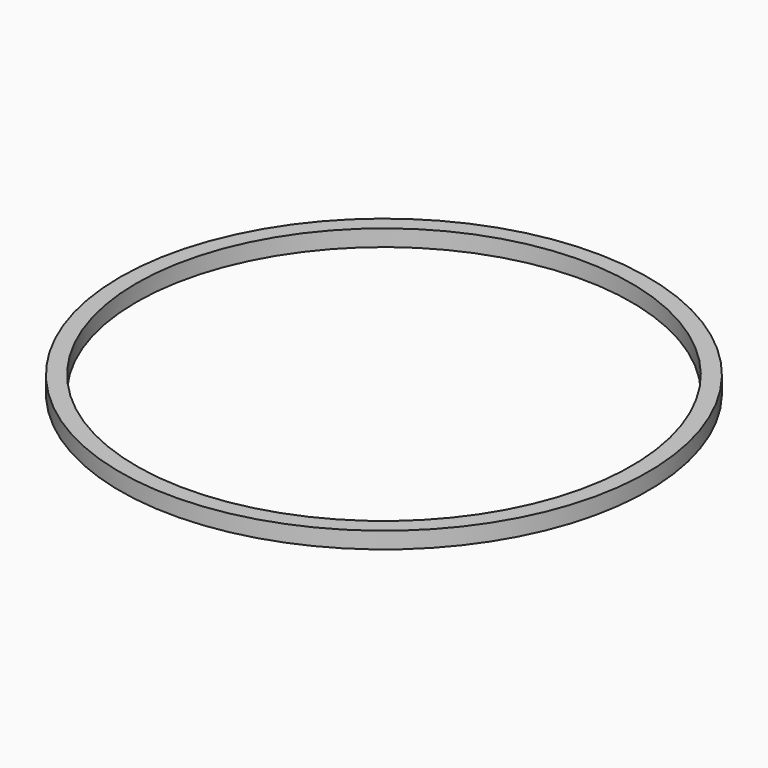
from build123d import *

# Parameters (mm, degrees)
F0_W   = 40
F0_H   = 40
F0_W_2 = 34
F0_H_2 = 34


with BuildPart() as f1:
    # F0 (on Front) → F1 (revolve)
    with BuildSketch(Plane.XZ):
        with Locations((-620, 0)):
            Rectangle(F0_W, F0_H)
        with Locations((-620, 0)):
            Rectangle(F0_W_2, F0_H_2, mode=Mode.SUBTRACT)
    revolve(axis=Axis((0, 0, -37.583534), (0, 0, -1)))


solid = f1.part
